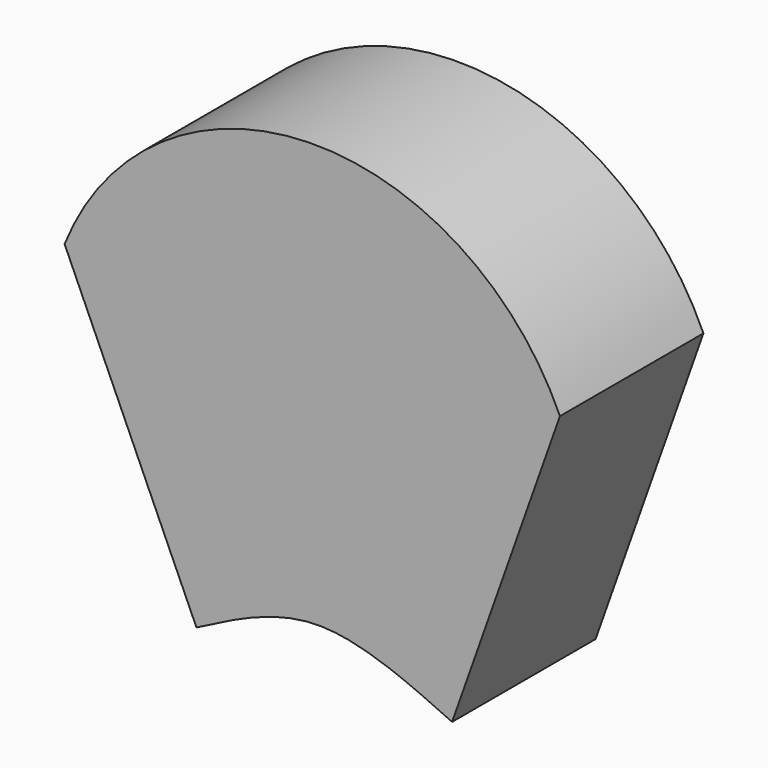
from build123d import *

# Parameters (mm, degrees)
F1_DEPTH = 12.7


with BuildPart() as f1:
    # F0 (on Front) → F1 (new body)
    with BuildSketch(Plane.XZ):
        with BuildLine():
            Line((0, -13.7794915439), (7.6362907766, 7.7673565592))
            ThreePointArc((7.6362907766, 7.7673565592), (-10.1275166443, 19.0464210648), (-27.4408110066, 7.0873245884))
            Line((-27.4408110066, 7.0873245884), (-18.1050954741, -13.7794915439))
            add(Edge.make_bspline(
                [(-18.1050954741, -13.7794915439), (-15.3373011477, -12.3353640158), (-9.6319206705, -9.3585181837), (-3.2737135274, -12.2768836229), (0, -13.7794915439)],
                knots=[0, 0, 0, 0, 0.4851200262, 1, 1, 1, 1], degree=3))
        make_face()
    extrude(amount=F1_DEPTH)


solid = f1.part
